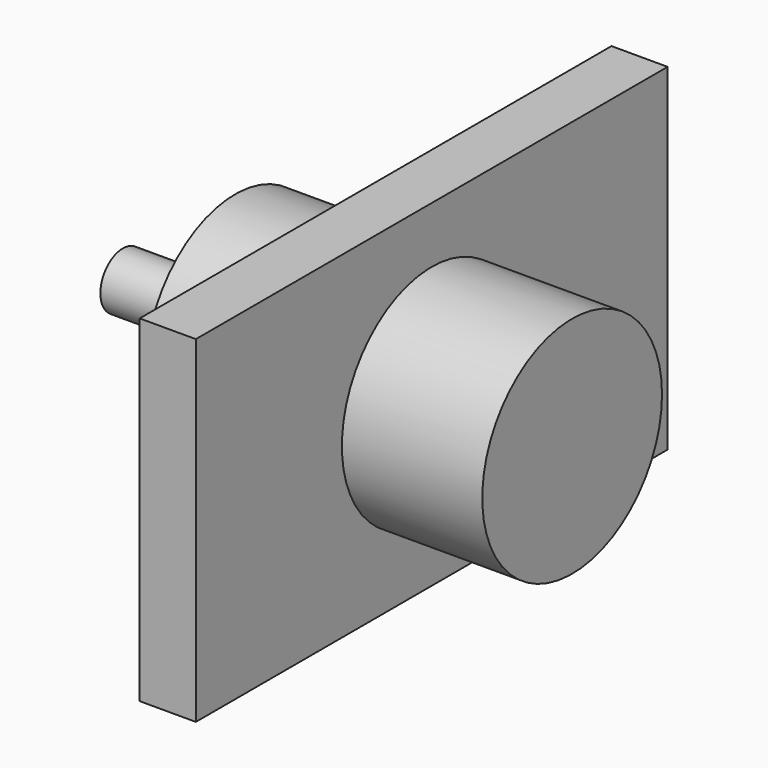
from build123d import *

# Parameters (mm, degrees)
F0_W     = 210
F0_H     = 120
F1_DEPTH = 20
F2_R     = 40
F3_DEPTH = 50
F4_R     = 40
F5_DEPTH = 50
F6_R     = 10
F7_DEPTH = 40


with BuildPart() as f1:
    # F0 (on Right) → F1 (new body)
    with BuildSketch(Plane.YZ):
        Rectangle(F0_W, F0_H)
    extrude(amount=F1_DEPTH)

    # F2 (on face) → F3 (join)
    with BuildSketch(Plane(origin=(0, 0, 0), x_dir=(0, -1, 0), z_dir=(-1, 0, 0))):
        Circle(F2_R)
    extrude(amount=F3_DEPTH)

    # F4 (on face) → F5 (join)
    with BuildSketch(Plane.YZ.offset(20)):
        Circle(F4_R)
    extrude(amount=F5_DEPTH)

    # F6 (on face) → F7 (join)
    with BuildSketch(Plane(origin=(-50, 0, 0), x_dir=(0, -1, 0), z_dir=(-1, 0, 0))):
        Circle(F6_R)
    extrude(amount=F7_DEPTH)


solid = f1.part
